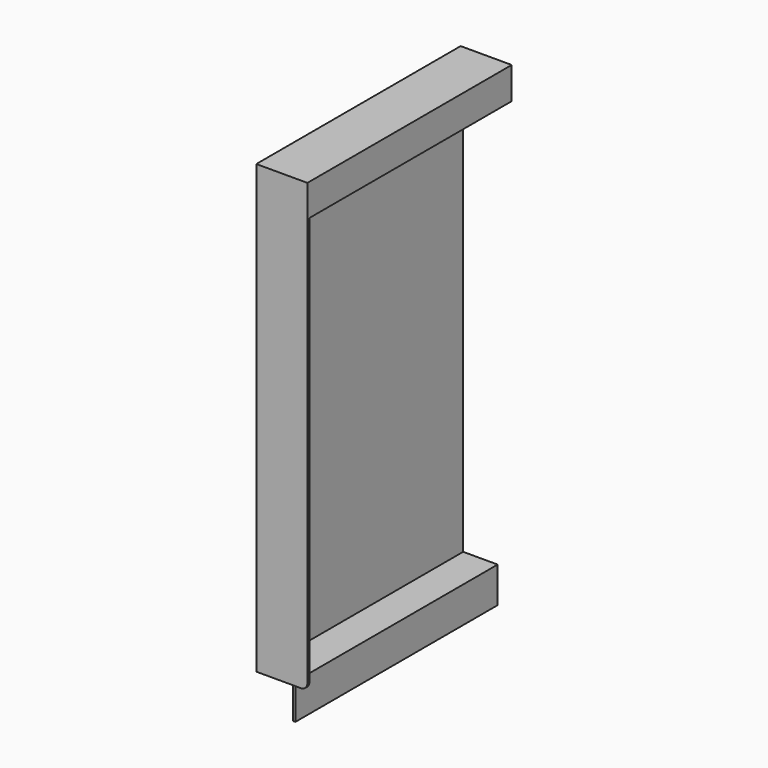
from build123d import *

# Parameters (mm, degrees)
F4_DEPTH = 2


with BuildPart() as f2:
    # F2: sweep along a path in F1
    with BuildLine(Plane.XY) as f2_path:
        Line((0, 0), (0, 198))
    # F0 (on Front) → F2 (sweep)
    with BuildSketch(Plane.XZ):
        Polygon((40, 0), (0, 0), (0, -350), (27, -350), (27, -376), (29, -376), (29, -348), (2, -348), (2, -2), (38, -2), (38, -25), (40, -25), align=None)
    sweep(path=f2_path.line)

    # F3 (on face) → F4 (join)
    with BuildSketch(Plane.XZ):
        with BuildLine():
            Line((40, -345), (40, 0))
            Line((40, 0), (0, 0))
            Line((0, 0), (0, -350))
            Line((0, -350), (35, -350))
            ThreePointArc((35, -350), (38.5355339059, -348.5355339059), (40, -345))
        make_face()
    extrude(amount=F4_DEPTH)


solid = f2.part
